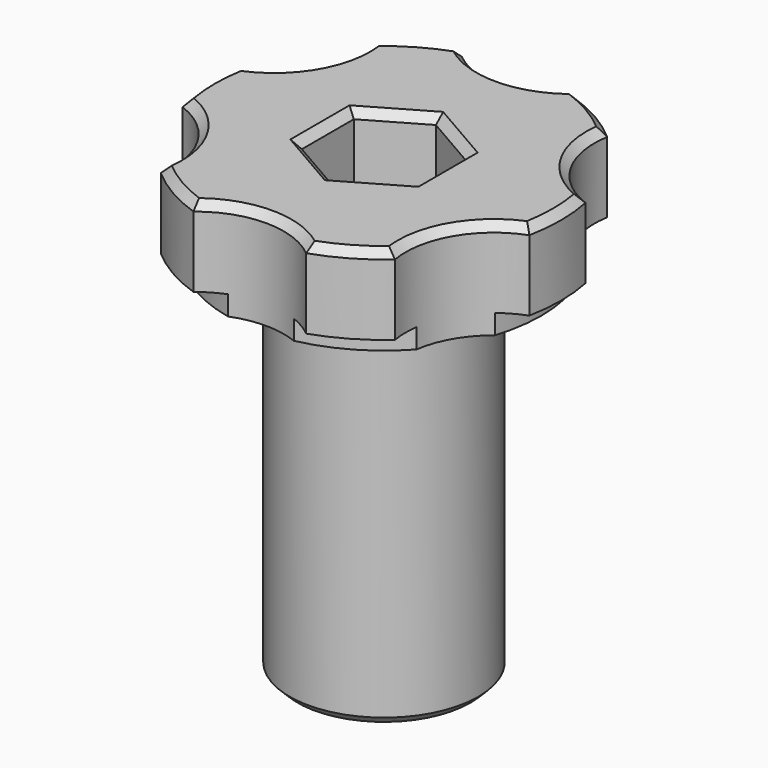
from build123d import *

# Parameters (mm, degrees)
SKETCH028_R              = 4.8
PAD006_DEPTH             = 18.5
SKETCH029_R              = 8
PAD007_DEPTH             = 1
SKETCH030_R              = 9
PAD008_DEPTH             = 4
SKETCH031_R              = 4.5
POCKET022_DEPTH          = 5
POCKET023_DEPTH          = 19
CHAMFER013004014012_SIZE = 0.4
SKETCH033_R              = 1.7
POCKET024_DEPTH          = 4.501
CHAMFER013004014013_SIZE = 0.4


with BuildPart() as part:
    # Sketch028 → Pad006 (new body)
    with BuildSketch(Plane.XY):
        Circle(SKETCH028_R)
    extrude(amount=PAD006_DEPTH)

    # Sketch029 (on Face3 of Pad006) → Pad007 (join)
    with BuildSketch(Plane.XY.offset(18.5)):
        Circle(SKETCH029_R)
    extrude(amount=PAD007_DEPTH)

    # Sketch030 (on Face3 of Pad007) → Pad008 (join)
    with BuildSketch(Plane.XY.offset(19.5)):
        Circle(SKETCH030_R)
    extrude(amount=PAD008_DEPTH)

    # Sketch031 (on Face3 of Pad008) → Pocket022 (cut)
    with BuildSketch(Plane.XY.offset(23.5)):
        with Locations((0, 12)):
            Circle(SKETCH031_R)
        with Locations((10.392305, 6)):
            Circle(SKETCH031_R)
        with Locations((10.392305, -6)):
            Circle(SKETCH031_R)
        with Locations((0, -12)):
            Circle(SKETCH031_R)
        with Locations((-10.392305, -6)):
            Circle(SKETCH031_R)
        with Locations((-10.392305, 6)):
            Circle(SKETCH031_R)
    extrude(amount=-POCKET022_DEPTH, mode=Mode.SUBTRACT)

    # Sketch032 (on Face4 of Pocket022) → Pocket023 (cut)
    with BuildSketch(Plane.XY.offset(23.5)):
        Polygon((0, 3.3), (-2.857884, 1.65), (-2.857884, -1.65), (0, -3.3), (2.857884, -1.65), (2.857884, 1.65), align=None)
    extrude(amount=-POCKET023_DEPTH, mode=Mode.SUBTRACT)

    # Chamfer013004014012
    chamfer013004014012_edges = [part.edges().sort_by_distance(p)[0] for p in [
        (8.955292, -0.89596, 23.5),
        (6.495191, -3.75, 23.5),
        (8.955292, 0.89596, 23.5),
        (4.5, -7.794229, 23.5),
        (6.495191, 3.75, 23.5),
        (0, -7.5, 23.5),
        (4.5, 7.794229, 23.5),
        (-4.5, -7.794229, 23.5),
        (0, 7.5, 23.5),
        (-5.907993, -6.375424, 23.5),
        (-4.5, 7.794229, 23.5),
        (-6.696488, -3.432717, 23.5),
        (-5.907993, 6.375424, 23.5),
        (-9, 0, 23.5),
        (-6.696488, 3.432717, 23.5),
        (-1.428942, 2.475, 23.5),
        (-2.857884, 0, 23.5),
        (-1.428942, -2.475, 23.5),
        (1.428942, -2.475, 23.5),
        (2.857884, 0, 23.5),
        (1.428942, 2.475, 23.5),
    ]]
    chamfer(chamfer013004014012_edges, length=CHAMFER013004014012_SIZE)

    # Sketch033 (on Face60 of Chamfer013004014012) → Pocket024 (cut, through all)
    with BuildSketch(Plane.XY.offset(4.5)):
        Circle(SKETCH033_R)
    extrude(amount=-POCKET024_DEPTH, mode=Mode.SUBTRACT)

    # Chamfer013004014013
    chamfer013004014013_edges = [part.edges().sort_by_distance(p)[0] for p in [
        (-4.8, 0, 0),
        (-1.7, 0, 0),
    ]]
    chamfer(chamfer013004014013_edges, length=CHAMFER013004014013_SIZE)


with BuildPart() as part_1:
    # Body002003 placement: moved
    add(part.part.moved(Location((29, 26, 12))))


solid = part_1.part
